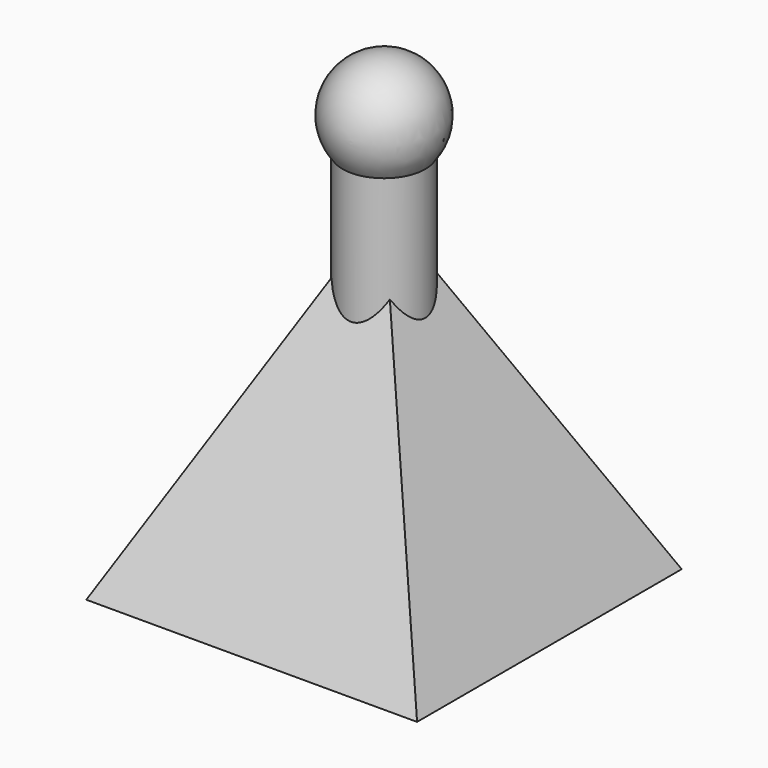
from build123d import *

# Parameters (mm, degrees)
F0_W          = 50.8
F0_H          = 50.8
F4_R          = 6.35
F5_DEPTH      = 25.4
F5_DEPTH_BACK = 12.7


with BuildPart() as f3:
    # F0 (on Top) → F3 section 0
    with BuildSketch(Plane.XY, mode=Mode.PRIVATE) as f3_s0:
        Rectangle(F0_W, F0_H)
    loft([f3_s0.sketch, Vertex(0, 0, 50.8)])

    # F4 (on offset) → F5 (join, two sides)
    with BuildSketch(Plane.XY.offset(50.8)) as f5_sk:
        Circle(F4_R)
    extrude(amount=-F5_DEPTH)
    extrude(f5_sk.sketch, amount=F5_DEPTH_BACK)

    # F6 (on face) → F7 (revolve)
    with BuildSketch(Plane.XY.offset(63.5)):
        with BuildLine():
            Line((0, -6.35), (0, -8.255))
            ThreePointArc((0, -8.255), (8.255, 0), (0, 8.255))
            Line((0, 8.255), (0, 6.35))
            ThreePointArc((0, 6.35), (4.4901280605, 4.4901280605), (6.35, 0))
            ThreePointArc((6.35, 0), (4.4901280605, -4.4901280605), (0, -6.35))
        make_face()
    revolve(axis=Axis((0, 0, 63.5), (0, -1, 0)))


solid = f3.part
